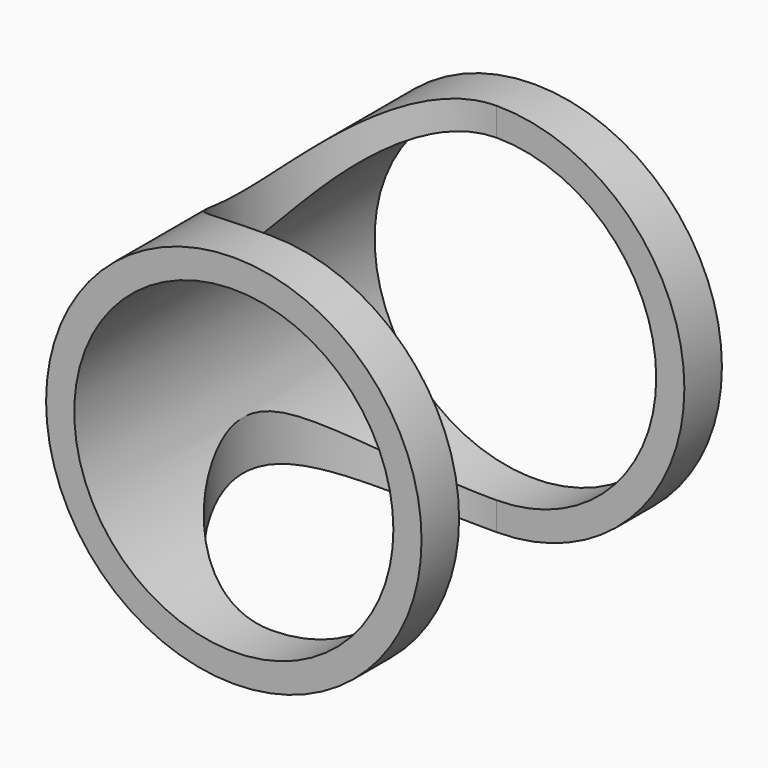
from build123d import *

# Parameters (mm, degrees)
F0_R     = 20
F0_R_2   = 17
F1_DEPTH = 40
F3_DEPTH = 25
F4_DEPTH = 25


with BuildPart() as f1:
    # F0 (on Front) → F1 (new body)
    with BuildSketch(Plane.XZ):
        Circle(F0_R)
        Circle(F0_R_2, mode=Mode.SUBTRACT)
    extrude(amount=F1_DEPTH)

    # F2 (on Top) → F3 (cut)
    with BuildSketch(Plane.XY):
        with BuildLine():
            Line((20, -5), (0, -5))
            ThreePointArc((0, -5), (-15, -20), (0, -35))
            Line((0, -35), (20, -35))
            ThreePointArc((20, -35), (35, -20), (20, -5))
        make_face()
    extrude(amount=F3_DEPTH, mode=Mode.SUBTRACT)

    # F2 (on Top) → F4 (cut)
    with BuildSketch(Plane.XY):
        with BuildLine():
            Line((20, -5), (0, -5))
            ThreePointArc((0, -5), (-15, -20), (0, -35))
            Line((0, -35), (20, -35))
            ThreePointArc((20, -35), (35, -20), (20, -5))
        make_face()
    extrude(amount=-F4_DEPTH, mode=Mode.SUBTRACT)


solid = f1.part
